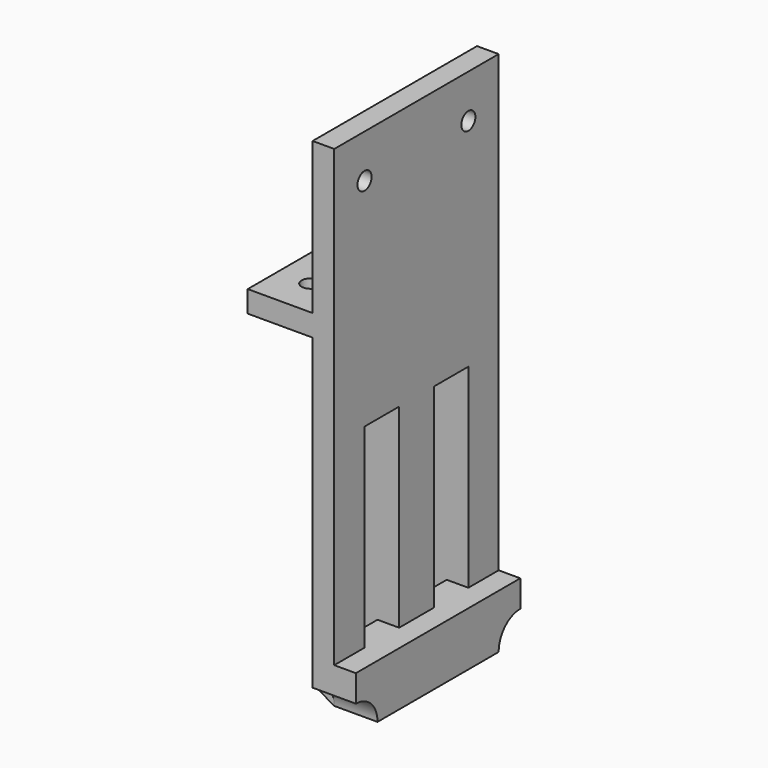
from build123d import *

# Parameters (mm, degrees)
F0_W      = 25.4
F0_H      = 228.6
F1_DEPTH  = 120.65
F2_DEPTH  = 76.2
F3_DEPTH  = 25.4
F4_R      = 10.31875
F5_DEPTH  = 101.601
F7_DEPTH  = 127.001
F9_DEPTH  = 88.9
F10_DEPTH = 76.2
F11_DEPTH = 25.4
F12_DEPTH = 9.525
F13_R     = 10.31875
F14_DEPTH = 419.031


with BuildPart() as f1:
    # F0 (on Front) → F1 (new body, symmetric)
    with BuildSketch(Plane.XZ):
        with Locations((-12.7, 114.3)):
            Rectangle(F0_W, F0_H)
        Polygon((-25.4, 228.6), (0, 228.6), (0, 533.6), (-25.4, 533.6), (-25.4, 355.73), (-101.6, 355.73), (-101.6, 330.33), (-25.4, 330.33), align=None)
        Polygon((-25.4, 228.6), (0, 228.6), (0, 533.6), (-25.4, 533.6), (-25.4, 355.73), (-101.6, 355.73), (-101.6, 330.33), (-25.4, 330.33), align=None)
        Polygon((25.4, 0), (0, 0), (-25.4, 0), (-25.4, -63.3), (25.4, -63.3), align=None)
    extrude(amount=F1_DEPTH, both=True)

    # F0 (on Front) → F2 (cut, symmetric)
    with BuildSketch(Plane.XZ):
        with Locations((-12.7, 114.3)):
            Rectangle(F0_W, F0_H)
    extrude(amount=F2_DEPTH, both=True, mode=Mode.SUBTRACT)

    # F0 (on Front) → F3 (join, symmetric)
    with BuildSketch(Plane.XZ):
        with Locations((-12.7, 114.3)):
            Rectangle(F0_W, F0_H)
    extrude(amount=F3_DEPTH, both=True)

    # F4 (on face) → F5 (cut, through all)
    with BuildSketch(Plane.YZ):
        with Locations((-76.2, 482.6)):
            Circle(F4_R)
        with Locations((76.2, 482.6)):
            Circle(F4_R)
    extrude(amount=-F5_DEPTH, mode=Mode.SUBTRACT)

    # F6 (on face) → F7 (cut, through all)
    with BuildSketch(Plane.YZ.offset(25.4)):
        with BuildLine():
            Line((-120.65, -63.3), (-88.9, -63.3))
            ThreePointArc((-88.9, -63.3), (-98.1993596973, -40.8493596973), (-120.65, -31.55))
            Line((-120.65, -31.55), (-120.65, -63.3))
        make_face()
        with BuildLine():
            ThreePointArc((120.65, -31.55), (98.1993596973, -40.8493596973), (88.9, -63.3))
            Line((88.9, -63.3), (120.65, -63.3))
            Line((120.65, -63.3), (120.65, -31.55))
        make_face()
    extrude(amount=-F7_DEPTH, mode=Mode.SUBTRACT)

    # F8 (on Front) → F9 (join, symmetric)
    with BuildSketch(Plane.XZ):
        Polygon((-50.8, -48.6353031626), (-25.4, -63.3), (-25.4, 266.83), (-50.8, 241.43), (-50.8, 216.03), align=None)
    extrude(amount=F9_DEPTH, both=True)

    # F8 (on Front) → F10 (cut, symmetric)
    with BuildSketch(Plane.XZ):
        Polygon((-50.8, -48.6353031626), (-25.4, -63.3), (-25.4, 266.83), (-50.8, 241.43), (-50.8, 216.03), align=None)
    extrude(amount=F10_DEPTH, both=True, mode=Mode.SUBTRACT)

    # F8 (on Front) → F11 (join, symmetric)
    with BuildSketch(Plane.XZ):
        Polygon((-50.8, -48.6353031626), (-25.4, -63.3), (-25.4, 266.83), (-50.8, 241.43), (-50.8, 216.03), align=None)
    extrude(amount=F11_DEPTH, both=True)

    # F8 (on Front) → F12 (join, symmetric)
    with BuildSketch(Plane.XZ):
        Polygon((-50.8, 241.43), (-25.4, 266.83), (-25.4, 330.33), (-88.9, 330.33), (-88.9, 254.13), (-53.975, 219.205), (-50.8, 216.03), align=None)
        Polygon((-53.975, -46.8022160579), (-50.8, -48.6353031626), (-50.8, 216.03), (-53.975, 219.205), align=None)
    extrude(amount=F12_DEPTH, both=True)

    # F13 (on face) → F14 (cut, through all)
    with BuildSketch(Plane.XY.offset(355.73)):
        with Locations((-63.5, 76.2)):
            Circle(F13_R)
        with Locations((-63.5, -76.2)):
            Circle(F13_R)
    extrude(amount=-F14_DEPTH, mode=Mode.SUBTRACT)


solid = f1.part
